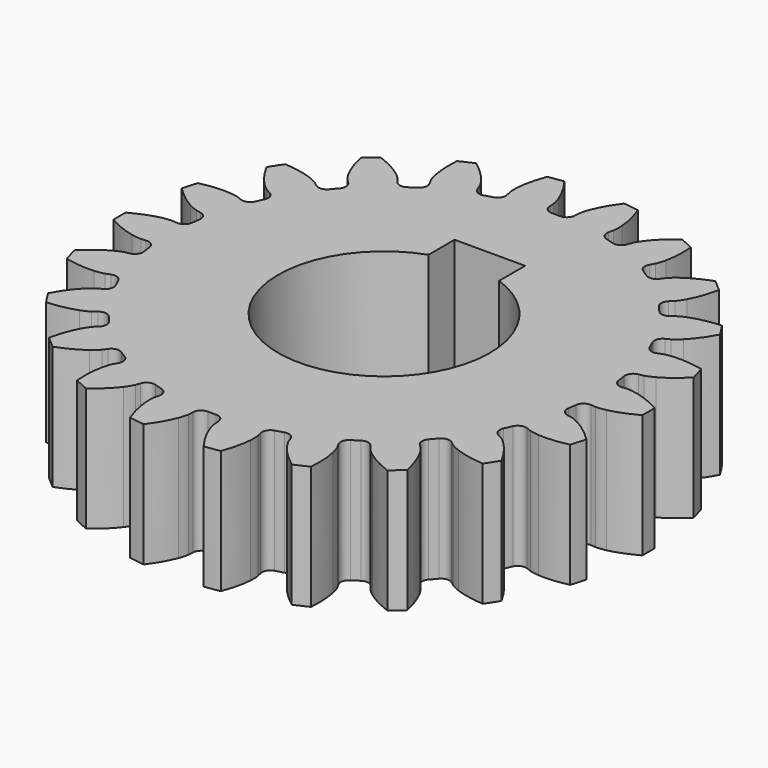
from build123d import *

# Parameters (mm, degrees)
PAD_DEPTH    = 7
POCKET_DEPTH = 7.001


with BuildPart() as part:
    # InvoluteGear → Pad (new body)
    with BuildSketch(Plane.XY):
        with BuildLine():
            Line((12.615371, -1.091471), (12.895792, -1.114794))
            add(Edge.make_bspline(
                [(12.895792, -1.114794), (12.956792, -1.116426), (13.140473, -1.114114), (13.446701, -1.048524)],
                knots=[0, 0, 0, 0, 1, 1, 1, 1], degree=3))
            add(Edge.make_bspline(
                [(13.446701, -1.048524), (13.813254, -0.968902), (14.341548, -0.799355), (14.994857, -0.440705)],
                knots=[0, 0, 0, 0, 1, 1, 1, 1], degree=3))
            ThreePointArc((14.994857, -0.440705), (15.000666, 0.000257), (14.99351, 0.441199))
            add(Edge.make_bspline(
                [(14.99351, 0.441199), (14.341548, 0.799355), (13.813254, 0.968902), (13.446701, 1.048524)],
                knots=[0, 0, 0, 0, 1, 1, 1, 1], degree=3))
            add(Edge.make_bspline(
                [(13.446701, 1.048524), (13.140473, 1.114114), (12.956792, 1.116426), (12.895792, 1.114794)],
                knots=[0, 0, 0, 0, 1, 1, 1, 1], degree=3))
            Line((12.895792, 1.114794), (12.615371, 1.091471))
            ThreePointArc((12.615371, 1.091471), (12.270328, 1.191744), (12.094225, 1.504949))
            ThreePointArc((12.094225, 1.504949), (12.063449, 1.734462), (12.028317, 1.963349))
            ThreePointArc((12.028317, 1.963349), (12.109047, 2.313481), (12.411863, 2.506902))
            Line((12.411863, 2.506902), (12.687496, 2.563528))
            add(Edge.make_bspline(
                [(12.687496, 2.563528), (12.746484, 2.579147), (12.922073, 2.633115), (13.197418, 2.782322)],
                knots=[0, 0, 0, 0, 1, 1, 1, 1], degree=3))
            add(Edge.make_bspline(
                [(13.197418, 2.782322), (13.526692, 2.961988), (13.985819, 3.273505), (14.511621, 3.801686)],
                knots=[0, 0, 0, 0, 1, 1, 1, 1], degree=3))
            ThreePointArc((14.511621, 3.801686), (14.392962, 4.226422), (14.261867, 4.647487))
            add(Edge.make_bspline(
                [(14.261867, 4.647487), (13.53541, 4.807456), (12.980749, 4.821298), (12.606612, 4.794425)],
                knots=[0, 0, 0, 0, 1, 1, 1, 1], degree=3))
            add(Edge.make_bspline(
                [(12.606612, 4.794425), (12.294309, 4.771083), (12.117417, 4.721553), (12.059348, 4.702801)],
                knots=[0, 0, 0, 0, 1, 1, 1, 1], degree=3))
            Line((12.059348, 4.702801), (11.796857, 4.60142))
            ThreePointArc((11.796857, 4.60142), (11.437541, 4.600421), (11.180331, 4.851325))
            ThreePointArc((11.180331, 4.851325), (11.08614, 5.06287), (10.987947, 5.272588))
            ThreePointArc((10.987947, 5.272588), (10.966763, 5.631281), (11.20282, 5.902181))
            Line((11.20282, 5.902181), (11.451334, 6.034167))
            add(Edge.make_bspline(
                [(11.451334, 6.034167), (11.503532, 6.065774), (11.656804, 6.167024), (11.878959, 6.387761)],
                knots=[0, 0, 0, 0, 1, 1, 1, 1], degree=3))
            add(Edge.make_bspline(
                [(11.878959, 6.387761), (12.144277, 6.652916), (12.497042, 7.081166), (12.85274, 7.736087)],
                knots=[0, 0, 0, 0, 1, 1, 1, 1], degree=3))
            ThreePointArc((12.85274, 7.736087), (12.619225, 8.110189), (12.374813, 8.477264))
            add(Edge.make_bspline(
                [(12.374813, 8.477264), (11.632714, 8.426086), (11.096621, 8.283102), (10.74521, 8.15191)],
                knots=[0, 0, 0, 0, 1, 1, 1, 1], degree=3))
            add(Edge.make_bspline(
                [(10.74521, 8.15191), (10.452134, 8.041528), (10.296362, 7.944168), (10.245928, 7.909816)],
                knots=[0, 0, 0, 0, 1, 1, 1, 1], degree=3))
            Line((10.245928, 7.909816), (10.022632, 7.738589))
            ThreePointArc((10.022632, 7.738589), (9.678152, 7.6364), (9.360673, 7.804675))
            ThreePointArc((9.360673, 7.804675), (9.210698, 7.981115), (9.057398, 8.154674))
            ThreePointArc((9.057398, 8.154674), (8.936017, 8.492869), (9.08619, 8.8193))
            Line((9.08619, 8.8193), (9.287453, 9.015955))
            add(Edge.make_bspline(
                [(9.287453, 9.015955), (9.328633, 9.060987), (9.447171, 9.201317), (9.598138, 9.475701)],
                knots=[0, 0, 0, 0, 1, 1, 1, 1], degree=3))
            add(Edge.make_bspline(
                [(9.598138, 9.475701), (9.778005, 9.804865), (9.995829, 10.315153), (10.152606, 11.043756)],
                knots=[0, 0, 0, 0, 1, 1, 1, 1], degree=3))
            ThreePointArc((10.152606, 11.043756), (9.823153, 11.336915), (9.485225, 11.620263))
            add(Edge.make_bspline(
                [(9.485225, 11.620263), (8.787604, 11.362085), (8.31351, 11.073857), (8.013295, 10.848975)],
                knots=[0, 0, 0, 0, 1, 1, 1, 1], degree=3))
            add(Edge.make_bspline(
                [(8.013295, 10.848975), (7.763189, 10.660496), (7.641156, 10.523193), (7.602443, 10.476024)],
                knots=[0, 0, 0, 0, 1, 1, 1, 1], degree=3))
            Line((7.602443, 10.476024), (7.436433, 10.248823))
            ThreePointArc((7.436433, 10.248823), (7.134696, 10.053722), (6.782669, 10.125738))
            ThreePointArc((6.782669, 10.125738), (6.58906, 10.252777), (6.393072, 10.376116))
            ThreePointArc((6.393072, 10.376116), (6.181328, 10.666415), (6.233452, 11.021932))
            Line((6.233452, 11.021932), (6.371158, 11.267323))
            add(Edge.make_bspline(
                [(6.371158, 11.267323), (6.397983, 11.322133), (6.472183, 11.490175), (6.539732, 11.795977)],
                knots=[0, 0, 0, 0, 1, 1, 1, 1], degree=3))
            add(Edge.make_bspline(
                [(6.539732, 11.795977), (6.619578, 12.162481), (6.684813, 12.713467), (6.629969, 13.456726)],
                knots=[0, 0, 0, 0, 1, 1, 1, 1], degree=3))
            ThreePointArc((6.629969, 13.456726), (6.231268, 13.645193), (5.8272, 13.821857))
            add(Edge.make_bspline(
                [(5.8272, 13.821857), (5.230575, 13.377595), (4.856889, 12.967475), (4.63219, 12.667122)],
                knots=[0, 0, 0, 0, 1, 1, 1, 1], degree=3))
            add(Edge.make_bspline(
                [(4.63219, 12.667122), (4.445316, 12.415814), (4.366909, 12.249693), (4.343054, 12.193527)],
                knots=[0, 0, 0, 0, 1, 1, 1, 1], degree=3))
            Line((4.343054, 12.193527), (4.247778, 11.928759))
            ThreePointArc((4.247778, 11.928759), (4.01323, 11.656552), (3.655173, 11.626473))
            ThreePointArc((3.655173, 11.626473), (3.433616, 11.693821), (3.210818, 11.756947))
            ThreePointArc((3.210818, 11.756947), (2.925864, 11.975831), (2.875716, 12.331633))
            Line((2.875716, 12.331633), (2.938709, 12.60588))
            add(Edge.make_bspline(
                [(2.938709, 12.60588), (2.949006, 12.666027), (2.972858, 12.848167), (2.951516, 13.160612)],
                knots=[0, 0, 0, 0, 1, 1, 1, 1], degree=3))
            add(Edge.make_bspline(
                [(2.951516, 13.160612), (2.924871, 13.534766), (2.832234, 14.081812), (2.57021, 14.779512)],
                knots=[0, 0, 0, 0, 1, 1, 1, 1], degree=3))
            ThreePointArc((2.57021, 14.779512), (2.134563, 14.848018), (1.697091, 14.903687))
            add(Edge.make_bspline(
                [(1.697091, 14.903687), (1.249796, 14.309332), (1.006791, 13.810544), (0.875814, 13.459053)],
                knots=[0, 0, 0, 0, 1, 1, 1, 1], degree=3))
            add(Edge.make_bspline(
                [(0.875814, 13.459053), (0.767311, 13.165277), (0.738882, 12.983795), (0.731816, 12.923183)],
                knots=[0, 0, 0, 0, 1, 1, 1, 1], degree=3))
            Line((0.731816, 12.923183), (0.714993, 12.642298))
            ThreePointArc((0.714993, 12.642298), (0.566636, 12.315037), (0.231557, 12.1853))
            ThreePointArc((0.231557, 12.1853), (0, 12.1875), (-0.231557, 12.1853))
            ThreePointArc((-0.231557, 12.1853), (-0.566636, 12.315037), (-0.714993, 12.642298))
            Line((-0.714993, 12.642298), (-0.731816, 12.923183))
            add(Edge.make_bspline(
                [(-0.731816, 12.923183), (-0.738882, 12.983795), (-0.767311, 13.165277), (-0.875814, 13.459053)],
                knots=[0, 0, 0, 0, 1, 1, 1, 1], degree=3))
            add(Edge.make_bspline(
                [(-0.875814, 13.459053), (-1.006791, 13.810544), (-1.249796, 14.309332), (-1.697771, 14.90495)],
                knots=[0, 0, 0, 0, 1, 1, 1, 1], degree=3))
            ThreePointArc((-1.697771, 14.90495), (-2.135072, 14.847945), (-2.570507, 14.778109))
            add(Edge.make_bspline(
                [(-2.570507, 14.778109), (-2.832234, 14.081812), (-2.924871, 13.534766), (-2.951516, 13.160612)],
                knots=[0, 0, 0, 0, 1, 1, 1, 1], degree=3))
            add(Edge.make_bspline(
                [(-2.951516, 13.160612), (-2.972858, 12.848167), (-2.949006, 12.666027), (-2.938709, 12.60588)],
                knots=[0, 0, 0, 0, 1, 1, 1, 1], degree=3))
            Line((-2.938709, 12.60588), (-2.875716, 12.331633))
            ThreePointArc((-2.875716, 12.331633), (-2.925864, 11.975831), (-3.210818, 11.756947))
            ThreePointArc((-3.210818, 11.756947), (-3.433616, 11.693821), (-3.655173, 11.626473))
            ThreePointArc((-3.655173, 11.626473), (-4.01323, 11.656552), (-4.247778, 11.928759))
            Line((-4.247778, 11.928759), (-4.343054, 12.193527))
            add(Edge.make_bspline(
                [(-4.343054, 12.193527), (-4.366909, 12.249693), (-4.445316, 12.415814), (-4.63219, 12.667122)],
                knots=[0, 0, 0, 0, 1, 1, 1, 1], degree=3))
            add(Edge.make_bspline(
                [(-4.63219, 12.667122), (-4.856889, 12.967475), (-5.230575, 13.377595), (-5.828209, 13.822877)],
                knots=[0, 0, 0, 0, 1, 1, 1, 1], degree=3))
            ThreePointArc((-5.828209, 13.822877), (-6.231736, 13.644979), (-6.629858, 13.455296))
            add(Edge.make_bspline(
                [(-6.629858, 13.455296), (-6.684813, 12.713467), (-6.619578, 12.162481), (-6.539732, 11.795977)],
                knots=[0, 0, 0, 0, 1, 1, 1, 1], degree=3))
            add(Edge.make_bspline(
                [(-6.539732, 11.795977), (-6.472183, 11.490175), (-6.397983, 11.322133), (-6.371158, 11.267323)],
                knots=[0, 0, 0, 0, 1, 1, 1, 1], degree=3))
            Line((-6.371158, 11.267323), (-6.233452, 11.021932))
            ThreePointArc((-6.233452, 11.021932), (-6.181328, 10.666415), (-6.393072, 10.376116))
            ThreePointArc((-6.393072, 10.376116), (-6.58906, 10.252777), (-6.782669, 10.125738))
            ThreePointArc((-6.782669, 10.125738), (-7.134696, 10.053722), (-7.436433, 10.248823))
            Line((-7.436433, 10.248823), (-7.602443, 10.476024))
            add(Edge.make_bspline(
                [(-7.602443, 10.476024), (-7.641156, 10.523193), (-7.763189, 10.660496), (-8.013295, 10.848975)],
                knots=[0, 0, 0, 0, 1, 1, 1, 1], degree=3))
            add(Edge.make_bspline(
                [(-8.013295, 10.848975), (-8.31351, 11.073857), (-8.787604, 11.362085), (-9.48648, 11.620958)],
                knots=[0, 0, 0, 0, 1, 1, 1, 1], degree=3))
            ThreePointArc((-9.48648, 11.620958), (-9.823541, 11.336579), (-10.152097, 11.042415))
            add(Edge.make_bspline(
                [(-10.152097, 11.042415), (-9.995829, 10.315153), (-9.778005, 9.804865), (-9.598138, 9.475701)],
                knots=[0, 0, 0, 0, 1, 1, 1, 1], degree=3))
            add(Edge.make_bspline(
                [(-9.598138, 9.475701), (-9.447171, 9.201317), (-9.328633, 9.060987), (-9.287453, 9.015955)],
                knots=[0, 0, 0, 0, 1, 1, 1, 1], degree=3))
            Line((-9.287453, 9.015955), (-9.08619, 8.8193))
            ThreePointArc((-9.08619, 8.8193), (-8.936017, 8.492869), (-9.057398, 8.154674))
            ThreePointArc((-9.057398, 8.154674), (-9.210698, 7.981115), (-9.360673, 7.804675))
            ThreePointArc((-9.360673, 7.804675), (-9.678152, 7.6364), (-10.022632, 7.738589))
            Line((-10.022632, 7.738589), (-10.245928, 7.909816))
            add(Edge.make_bspline(
                [(-10.245928, 7.909816), (-10.296362, 7.944168), (-10.452134, 8.041528), (-10.74521, 8.15191)],
                knots=[0, 0, 0, 0, 1, 1, 1, 1], degree=3))
            add(Edge.make_bspline(
                [(-10.74521, 8.15191), (-11.096621, 8.283102), (-11.632714, 8.426086), (-12.376213, 8.477577)],
                knots=[0, 0, 0, 0, 1, 1, 1, 1], degree=3))
            ThreePointArc((-12.376213, 8.477577), (-12.619502, 8.109756), (-12.851874, 7.734943))
            add(Edge.make_bspline(
                [(-12.851874, 7.734943), (-12.497042, 7.081166), (-12.144277, 6.652916), (-11.878959, 6.387761)],
                knots=[0, 0, 0, 0, 1, 1, 1, 1], degree=3))
            add(Edge.make_bspline(
                [(-11.878959, 6.387761), (-11.656804, 6.167024), (-11.503532, 6.065774), (-11.451334, 6.034167)],
                knots=[0, 0, 0, 0, 1, 1, 1, 1], degree=3))
            Line((-11.451334, 6.034167), (-11.20282, 5.902181))
            ThreePointArc((-11.20282, 5.902181), (-10.966763, 5.631281), (-10.987947, 5.272588))
            ThreePointArc((-10.987947, 5.272588), (-11.08614, 5.06287), (-11.180331, 4.851325))
            ThreePointArc((-11.180331, 4.851325), (-11.437541, 4.600421), (-11.796857, 4.60142))
            Line((-11.796857, 4.60142), (-12.059348, 4.702801))
            add(Edge.make_bspline(
                [(-12.059348, 4.702801), (-12.117417, 4.721553), (-12.294309, 4.771083), (-12.606612, 4.794425)],
                knots=[0, 0, 0, 0, 1, 1, 1, 1], degree=3))
            add(Edge.make_bspline(
                [(-12.606612, 4.794425), (-12.980749, 4.821298), (-13.53541, 4.807456), (-14.263299, 4.647393)],
                knots=[0, 0, 0, 0, 1, 1, 1, 1], degree=3))
            ThreePointArc((-14.263299, 4.647393), (-14.393106, 4.22593), (-14.510468, 3.800832))
            add(Edge.make_bspline(
                [(-14.510468, 3.800832), (-13.985819, 3.273505), (-13.526692, 2.961988), (-13.197418, 2.782322)],
                knots=[0, 0, 0, 0, 1, 1, 1, 1], degree=3))
            add(Edge.make_bspline(
                [(-13.197418, 2.782322), (-12.922073, 2.633115), (-12.746484, 2.579147), (-12.687496, 2.563528)],
                knots=[0, 0, 0, 0, 1, 1, 1, 1], degree=3))
            Line((-12.687496, 2.563528), (-12.411863, 2.506902))
            ThreePointArc((-12.411863, 2.506902), (-12.109047, 2.313481), (-12.028317, 1.963349))
            ThreePointArc((-12.028317, 1.963349), (-12.063449, 1.734462), (-12.094225, 1.504949))
            ThreePointArc((-12.094225, 1.504949), (-12.270328, 1.191744), (-12.615371, 1.091471))
            Line((-12.615371, 1.091471), (-12.895792, 1.114794))
            add(Edge.make_bspline(
                [(-12.895792, 1.114794), (-12.956792, 1.116426), (-13.140473, 1.114114), (-13.446701, 1.048524)],
                knots=[0, 0, 0, 0, 1, 1, 1, 1], degree=3))
            add(Edge.make_bspline(
                [(-13.446701, 1.048524), (-13.813254, 0.968902), (-14.341548, 0.799355), (-14.994857, 0.440705)],
                knots=[0, 0, 0, 0, 1, 1, 1, 1], degree=3))
            ThreePointArc((-14.994857, 0.440705), (-15.000666, -0.000257), (-14.99351, -0.441199))
            add(Edge.make_bspline(
                [(-14.99351, -0.441199), (-14.341548, -0.799355), (-13.813254, -0.968902), (-13.446701, -1.048524)],
                knots=[0, 0, 0, 0, 1, 1, 1, 1], degree=3))
            add(Edge.make_bspline(
                [(-13.446701, -1.048524), (-13.140473, -1.114114), (-12.956792, -1.116426), (-12.895792, -1.114794)],
                knots=[0, 0, 0, 0, 1, 1, 1, 1], degree=3))
            Line((-12.895792, -1.114794), (-12.615371, -1.091471))
            ThreePointArc((-12.615371, -1.091471), (-12.270328, -1.191744), (-12.094225, -1.504949))
            ThreePointArc((-12.094225, -1.504949), (-12.063449, -1.734462), (-12.028317, -1.963349))
            ThreePointArc((-12.028317, -1.963349), (-12.109047, -2.313481), (-12.411863, -2.506902))
            Line((-12.411863, -2.506902), (-12.687496, -2.563528))
            add(Edge.make_bspline(
                [(-12.687496, -2.563528), (-12.746484, -2.579147), (-12.922073, -2.633115), (-13.197418, -2.782322)],
                knots=[0, 0, 0, 0, 1, 1, 1, 1], degree=3))
            add(Edge.make_bspline(
                [(-13.197418, -2.782322), (-13.526692, -2.961988), (-13.985819, -3.273505), (-14.511621, -3.801686)],
                knots=[0, 0, 0, 0, 1, 1, 1, 1], degree=3))
            ThreePointArc((-14.511621, -3.801686), (-14.392962, -4.226422), (-14.261867, -4.647487))
            add(Edge.make_bspline(
                [(-14.261867, -4.647487), (-13.53541, -4.807456), (-12.980749, -4.821298), (-12.606612, -4.794425)],
                knots=[0, 0, 0, 0, 1, 1, 1, 1], degree=3))
            add(Edge.make_bspline(
                [(-12.606612, -4.794425), (-12.294309, -4.771083), (-12.117417, -4.721553), (-12.059348, -4.702801)],
                knots=[0, 0, 0, 0, 1, 1, 1, 1], degree=3))
            Line((-12.059348, -4.702801), (-11.796857, -4.60142))
            ThreePointArc((-11.796857, -4.60142), (-11.437541, -4.600421), (-11.180331, -4.851325))
            ThreePointArc((-11.180331, -4.851325), (-11.08614, -5.06287), (-10.987947, -5.272588))
            ThreePointArc((-10.987947, -5.272588), (-10.966763, -5.631281), (-11.20282, -5.902181))
            Line((-11.20282, -5.902181), (-11.451334, -6.034167))
            add(Edge.make_bspline(
                [(-11.451334, -6.034167), (-11.503532, -6.065774), (-11.656804, -6.167024), (-11.878959, -6.387761)],
                knots=[0, 0, 0, 0, 1, 1, 1, 1], degree=3))
            add(Edge.make_bspline(
                [(-11.878959, -6.387761), (-12.144277, -6.652916), (-12.497042, -7.081166), (-12.85274, -7.736087)],
                knots=[0, 0, 0, 0, 1, 1, 1, 1], degree=3))
            ThreePointArc((-12.85274, -7.736087), (-12.619225, -8.110189), (-12.374813, -8.477264))
            add(Edge.make_bspline(
                [(-12.374813, -8.477264), (-11.632714, -8.426086), (-11.096621, -8.283102), (-10.74521, -8.15191)],
                knots=[0, 0, 0, 0, 1, 1, 1, 1], degree=3))
            add(Edge.make_bspline(
                [(-10.74521, -8.15191), (-10.452134, -8.041528), (-10.296362, -7.944168), (-10.245928, -7.909816)],
                knots=[0, 0, 0, 0, 1, 1, 1, 1], degree=3))
            Line((-10.245928, -7.909816), (-10.022632, -7.738589))
            ThreePointArc((-10.022632, -7.738589), (-9.678152, -7.6364), (-9.360673, -7.804675))
            ThreePointArc((-9.360673, -7.804675), (-9.210698, -7.981115), (-9.057398, -8.154674))
            ThreePointArc((-9.057398, -8.154674), (-8.936017, -8.492869), (-9.08619, -8.8193))
            Line((-9.08619, -8.8193), (-9.287453, -9.015955))
            add(Edge.make_bspline(
                [(-9.287453, -9.015955), (-9.328633, -9.060987), (-9.447171, -9.201317), (-9.598138, -9.475701)],
                knots=[0, 0, 0, 0, 1, 1, 1, 1], degree=3))
            add(Edge.make_bspline(
                [(-9.598138, -9.475701), (-9.778005, -9.804865), (-9.995829, -10.315153), (-10.152606, -11.043756)],
                knots=[0, 0, 0, 0, 1, 1, 1, 1], degree=3))
            ThreePointArc((-10.152606, -11.043756), (-9.823153, -11.336915), (-9.485225, -11.620263))
            add(Edge.make_bspline(
                [(-9.485225, -11.620263), (-8.787604, -11.362085), (-8.31351, -11.073857), (-8.013295, -10.848975)],
                knots=[0, 0, 0, 0, 1, 1, 1, 1], degree=3))
            add(Edge.make_bspline(
                [(-8.013295, -10.848975), (-7.763189, -10.660496), (-7.641156, -10.523193), (-7.602443, -10.476024)],
                knots=[0, 0, 0, 0, 1, 1, 1, 1], degree=3))
            Line((-7.602443, -10.476024), (-7.436433, -10.248823))
            ThreePointArc((-7.436433, -10.248823), (-7.134696, -10.053722), (-6.782669, -10.125738))
            ThreePointArc((-6.782669, -10.125738), (-6.58906, -10.252777), (-6.393072, -10.376116))
            ThreePointArc((-6.393072, -10.376116), (-6.181328, -10.666415), (-6.233452, -11.021932))
            Line((-6.233452, -11.021932), (-6.371158, -11.267323))
            add(Edge.make_bspline(
                [(-6.371158, -11.267323), (-6.397983, -11.322133), (-6.472183, -11.490175), (-6.539732, -11.795977)],
                knots=[0, 0, 0, 0, 1, 1, 1, 1], degree=3))
            add(Edge.make_bspline(
                [(-6.539732, -11.795977), (-6.619578, -12.162481), (-6.684813, -12.713467), (-6.629969, -13.456726)],
                knots=[0, 0, 0, 0, 1, 1, 1, 1], degree=3))
            ThreePointArc((-6.629969, -13.456726), (-6.231268, -13.645193), (-5.8272, -13.821857))
            add(Edge.make_bspline(
                [(-5.8272, -13.821857), (-5.230575, -13.377595), (-4.856889, -12.967475), (-4.63219, -12.667122)],
                knots=[0, 0, 0, 0, 1, 1, 1, 1], degree=3))
            add(Edge.make_bspline(
                [(-4.63219, -12.667122), (-4.445316, -12.415814), (-4.366909, -12.249693), (-4.343054, -12.193527)],
                knots=[0, 0, 0, 0, 1, 1, 1, 1], degree=3))
            Line((-4.343054, -12.193527), (-4.247778, -11.928759))
            ThreePointArc((-4.247778, -11.928759), (-4.01323, -11.656552), (-3.655173, -11.626473))
            ThreePointArc((-3.655173, -11.626473), (-3.433616, -11.693821), (-3.210818, -11.756947))
            ThreePointArc((-3.210818, -11.756947), (-2.925864, -11.975831), (-2.875716, -12.331633))
            Line((-2.875716, -12.331633), (-2.938709, -12.60588))
            add(Edge.make_bspline(
                [(-2.938709, -12.60588), (-2.949006, -12.666027), (-2.972858, -12.848167), (-2.951516, -13.160612)],
                knots=[0, 0, 0, 0, 1, 1, 1, 1], degree=3))
            add(Edge.make_bspline(
                [(-2.951516, -13.160612), (-2.924871, -13.534766), (-2.832234, -14.081812), (-2.57021, -14.779512)],
                knots=[0, 0, 0, 0, 1, 1, 1, 1], degree=3))
            ThreePointArc((-2.57021, -14.779512), (-2.134563, -14.848018), (-1.697091, -14.903687))
            add(Edge.make_bspline(
                [(-1.697091, -14.903687), (-1.249796, -14.309332), (-1.006791, -13.810544), (-0.875814, -13.459053)],
                knots=[0, 0, 0, 0, 1, 1, 1, 1], degree=3))
            add(Edge.make_bspline(
                [(-0.875814, -13.459053), (-0.767311, -13.165277), (-0.738882, -12.983795), (-0.731816, -12.923183)],
                knots=[0, 0, 0, 0, 1, 1, 1, 1], degree=3))
            Line((-0.731816, -12.923183), (-0.714993, -12.642298))
            ThreePointArc((-0.714993, -12.642298), (-0.566636, -12.315037), (-0.231557, -12.1853))
            ThreePointArc((-0.231557, -12.1853), (0, -12.1875), (0.231557, -12.1853))
            ThreePointArc((0.231557, -12.1853), (0.566636, -12.315037), (0.714993, -12.642298))
            Line((0.714993, -12.642298), (0.731816, -12.923183))
            add(Edge.make_bspline(
                [(0.731816, -12.923183), (0.738882, -12.983795), (0.767311, -13.165277), (0.875814, -13.459053)],
                knots=[0, 0, 0, 0, 1, 1, 1, 1], degree=3))
            add(Edge.make_bspline(
                [(0.875814, -13.459053), (1.006791, -13.810544), (1.249796, -14.309332), (1.697771, -14.90495)],
                knots=[0, 0, 0, 0, 1, 1, 1, 1], degree=3))
            ThreePointArc((1.697771, -14.90495), (2.135072, -14.847945), (2.570507, -14.778109))
            add(Edge.make_bspline(
                [(2.570507, -14.778109), (2.832234, -14.081812), (2.924871, -13.534766), (2.951516, -13.160612)],
                knots=[0, 0, 0, 0, 1, 1, 1, 1], degree=3))
            add(Edge.make_bspline(
                [(2.951516, -13.160612), (2.972858, -12.848167), (2.949006, -12.666027), (2.938709, -12.60588)],
                knots=[0, 0, 0, 0, 1, 1, 1, 1], degree=3))
            Line((2.938709, -12.60588), (2.875716, -12.331633))
            ThreePointArc((2.875716, -12.331633), (2.925864, -11.975831), (3.210818, -11.756947))
            ThreePointArc((3.210818, -11.756947), (3.433616, -11.693821), (3.655173, -11.626473))
            ThreePointArc((3.655173, -11.626473), (4.01323, -11.656552), (4.247778, -11.928759))
            Line((4.247778, -11.928759), (4.343054, -12.193527))
            add(Edge.make_bspline(
                [(4.343054, -12.193527), (4.366909, -12.249693), (4.445316, -12.415814), (4.63219, -12.667122)],
                knots=[0, 0, 0, 0, 1, 1, 1, 1], degree=3))
            add(Edge.make_bspline(
                [(4.63219, -12.667122), (4.856889, -12.967475), (5.230575, -13.377595), (5.828209, -13.822877)],
                knots=[0, 0, 0, 0, 1, 1, 1, 1], degree=3))
            ThreePointArc((5.828209, -13.822877), (6.231736, -13.644979), (6.629858, -13.455296))
            add(Edge.make_bspline(
                [(6.629858, -13.455296), (6.684813, -12.713467), (6.619578, -12.162481), (6.539732, -11.795977)],
                knots=[0, 0, 0, 0, 1, 1, 1, 1], degree=3))
            add(Edge.make_bspline(
                [(6.539732, -11.795977), (6.472183, -11.490175), (6.397983, -11.322133), (6.371158, -11.267323)],
                knots=[0, 0, 0, 0, 1, 1, 1, 1], degree=3))
            Line((6.371158, -11.267323), (6.233452, -11.021932))
            ThreePointArc((6.233452, -11.021932), (6.181328, -10.666415), (6.393072, -10.376116))
            ThreePointArc((6.393072, -10.376116), (6.58906, -10.252777), (6.782669, -10.125738))
            ThreePointArc((6.782669, -10.125738), (7.134696, -10.053722), (7.436433, -10.248823))
            Line((7.436433, -10.248823), (7.602443, -10.476024))
            add(Edge.make_bspline(
                [(7.602443, -10.476024), (7.641156, -10.523193), (7.763189, -10.660496), (8.013295, -10.848975)],
                knots=[0, 0, 0, 0, 1, 1, 1, 1], degree=3))
            add(Edge.make_bspline(
                [(8.013295, -10.848975), (8.31351, -11.073857), (8.787604, -11.362085), (9.48648, -11.620958)],
                knots=[0, 0, 0, 0, 1, 1, 1, 1], degree=3))
            ThreePointArc((9.48648, -11.620958), (9.823541, -11.336579), (10.152097, -11.042415))
            add(Edge.make_bspline(
                [(10.152097, -11.042415), (9.995829, -10.315153), (9.778005, -9.804865), (9.598138, -9.475701)],
                knots=[0, 0, 0, 0, 1, 1, 1, 1], degree=3))
            add(Edge.make_bspline(
                [(9.598138, -9.475701), (9.447171, -9.201317), (9.328633, -9.060987), (9.287453, -9.015955)],
                knots=[0, 0, 0, 0, 1, 1, 1, 1], degree=3))
            Line((9.287453, -9.015955), (9.08619, -8.8193))
            ThreePointArc((9.08619, -8.8193), (8.936017, -8.492869), (9.057398, -8.154674))
            ThreePointArc((9.057398, -8.154674), (9.210698, -7.981115), (9.360673, -7.804675))
            ThreePointArc((9.360673, -7.804675), (9.678152, -7.6364), (10.022632, -7.738589))
            Line((10.022632, -7.738589), (10.245928, -7.909816))
            add(Edge.make_bspline(
                [(10.245928, -7.909816), (10.296362, -7.944168), (10.452134, -8.041528), (10.74521, -8.15191)],
                knots=[0, 0, 0, 0, 1, 1, 1, 1], degree=3))
            add(Edge.make_bspline(
                [(10.74521, -8.15191), (11.096621, -8.283102), (11.632714, -8.426086), (12.376213, -8.477577)],
                knots=[0, 0, 0, 0, 1, 1, 1, 1], degree=3))
            ThreePointArc((12.376213, -8.477577), (12.619502, -8.109756), (12.851874, -7.734943))
            add(Edge.make_bspline(
                [(12.851874, -7.734943), (12.497042, -7.081166), (12.144277, -6.652916), (11.878959, -6.387761)],
                knots=[0, 0, 0, 0, 1, 1, 1, 1], degree=3))
            add(Edge.make_bspline(
                [(11.878959, -6.387761), (11.656804, -6.167024), (11.503532, -6.065774), (11.451334, -6.034167)],
                knots=[0, 0, 0, 0, 1, 1, 1, 1], degree=3))
            Line((11.451334, -6.034167), (11.20282, -5.902181))
            ThreePointArc((11.20282, -5.902181), (10.966763, -5.631281), (10.987947, -5.272588))
            ThreePointArc((10.987947, -5.272588), (11.08614, -5.06287), (11.180331, -4.851325))
            ThreePointArc((11.180331, -4.851325), (11.437541, -4.600421), (11.796857, -4.60142))
            Line((11.796857, -4.60142), (12.059348, -4.702801))
            add(Edge.make_bspline(
                [(12.059348, -4.702801), (12.117417, -4.721553), (12.294309, -4.771083), (12.606612, -4.794425)],
                knots=[0, 0, 0, 0, 1, 1, 1, 1], degree=3))
            add(Edge.make_bspline(
                [(12.606612, -4.794425), (12.980749, -4.821298), (13.53541, -4.807456), (14.263299, -4.647393)],
                knots=[0, 0, 0, 0, 1, 1, 1, 1], degree=3))
            ThreePointArc((14.263299, -4.647393), (14.393106, -4.22593), (14.510468, -3.800832))
            add(Edge.make_bspline(
                [(14.510468, -3.800832), (13.985819, -3.273505), (13.526692, -2.961988), (13.197418, -2.782322)],
                knots=[0, 0, 0, 0, 1, 1, 1, 1], degree=3))
            add(Edge.make_bspline(
                [(13.197418, -2.782322), (12.922073, -2.633115), (12.746484, -2.579147), (12.687496, -2.563528)],
                knots=[0, 0, 0, 0, 1, 1, 1, 1], degree=3))
            Line((12.687496, -2.563528), (12.411863, -2.506902))
            ThreePointArc((12.411863, -2.506902), (12.109047, -2.313481), (12.028317, -1.963349))
            ThreePointArc((12.028317, -1.963349), (12.063449, -1.734462), (12.094225, -1.504949))
            ThreePointArc((12.094225, -1.504949), (12.270328, -1.191744), (12.615371, -1.091471))
        make_face()
    extrude(amount=PAD_DEPTH)

    # Sketch001 → Pocket (cut, through all)
    with BuildSketch(Plane.XY.offset(7)):
        with BuildLine():
            ThreePointArc((-2, 5.656854), (0, -6), (2, 5.656854))
            Line((2, 7.5), (2, 5.656854))
            Line((-2, 7.5), (2, 7.5))
            Line((-2, 7.5), (-2, 5.656854))
        make_face()
    extrude(amount=-POCKET_DEPTH, mode=Mode.SUBTRACT)


solid = part.part
